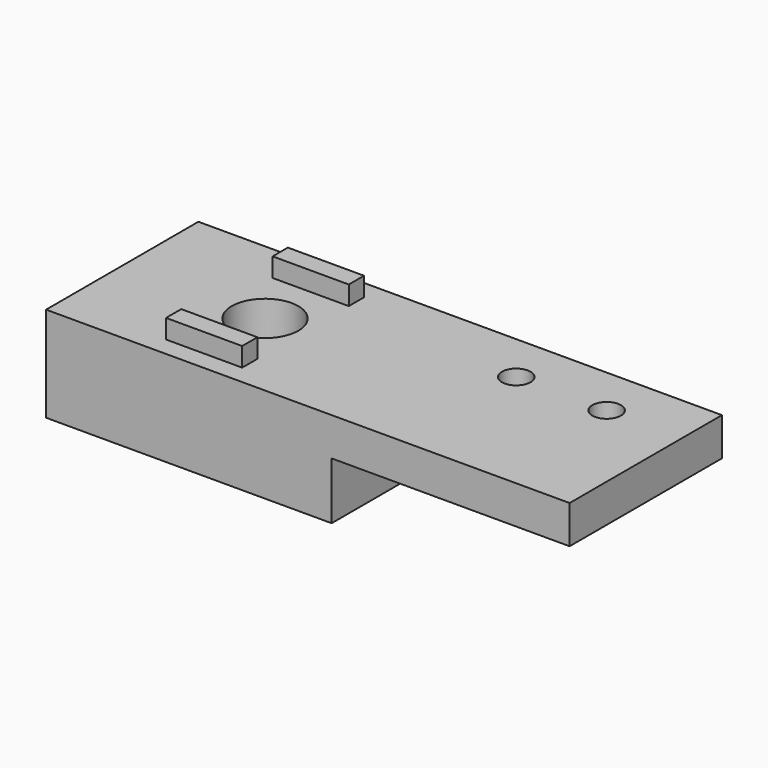
from build123d import *

# Parameters (mm, degrees)
F0_W     = 55
F0_H     = 20
F0_R     = 3.5
F0_R_2   = 1.5
F1_DEPTH = 10
F2_W     = 8
F2_H     = 2
F3_DEPTH = 2
F4_R     = 5.5
F5_DEPTH = 4
F6_W     = 25
F6_H     = 20
F7_DEPTH = 6


with BuildPart() as f1:
    # F0 (on Top) → F1 (new body)
    with BuildSketch(Plane.XY):
        Rectangle(F0_W, F0_H)
        with Locations((-12.5, 0)):
            Circle(F0_R, mode=Mode.SUBTRACT)
        with Locations((10.09, 4.75)):
            Circle(F0_R_2, mode=Mode.SUBTRACT)
        with Locations((19.59, 4.75)):
            Circle(F0_R_2, mode=Mode.SUBTRACT)
    extrude(amount=F1_DEPTH)

    # F2 (on face) → F3 (join)
    with BuildSketch(Plane.XY.offset(10)):
        with Locations((-12.5, 7)):
            Rectangle(F2_W, F2_H)
        with Locations((-12.5, -7)):
            Rectangle(F2_W, F2_H)
    extrude(amount=F3_DEPTH)

    # F4 (on Top) → F5 (cut)
    with BuildSketch(Plane.XY):
        with Locations((-12.5, 0)):
            Circle(F4_R)
    extrude(amount=F5_DEPTH, mode=Mode.SUBTRACT)

    # F6 (on Top) → F7 (cut)
    with BuildSketch(Plane.XY):
        with Locations((15, 0)):
            Rectangle(F6_W, F6_H)
    extrude(amount=F7_DEPTH, mode=Mode.SUBTRACT)


solid = f1.part
